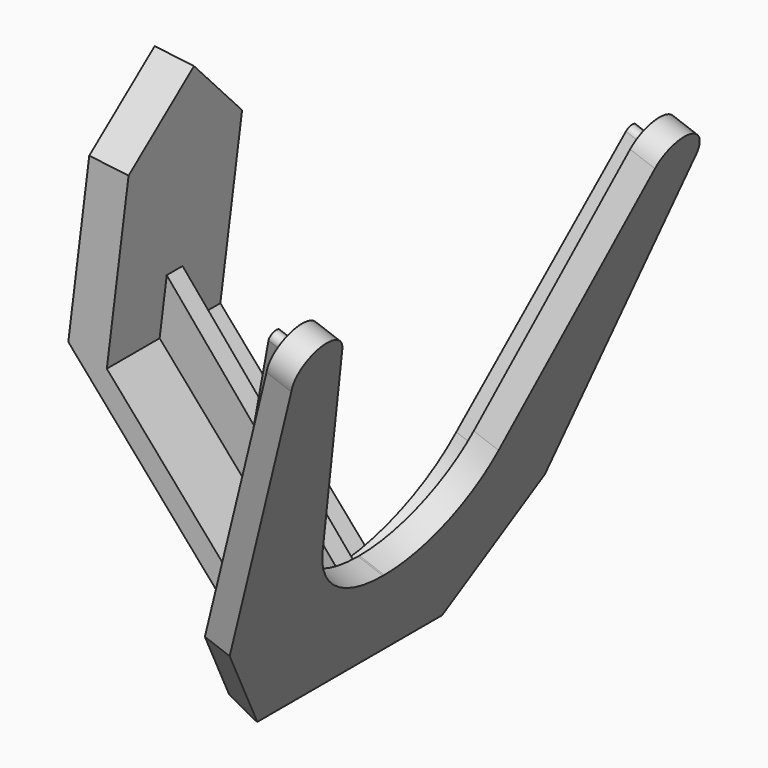
from build123d import *

# Parameters (mm, degrees)
BOX033_W               = 5
BOX033_H               = 49
BOX033_DEPTH           = 74
BOX033_PITCH_ANGLE     = 29
PAD001_DEPTH           = 4
PAD_DEPTH              = 4
EXTRUDE044_DEPTH       = 6
EXTRUDE044_PITCH_ANGLE = -13
BOX032_W               = 47
BOX032_H               = 35
BOX032_DEPTH           = 12
BOX021_W               = 10
BOX021_H               = 3
BOX021_DEPTH           = 49
BOX021_PLACEMENT_ANGLE = 30
BOX020_W               = 5
BOX020_H               = 21.5
BOX020_DEPTH           = 52
BOX020_PITCH_ANGLE     = 29
CUT035_PLACEMENT_ANGLE = 70


with BuildPart() as obj1:
    # Box033 → Box033 (new body)
    with BuildSketch(Plane.XY):
        with Locations((2.5, 24.5)):
            Rectangle(BOX033_W, BOX033_H)
    extrude(amount=BOX033_DEPTH)


with BuildPart() as obj1_1:
    # Box033 pitch: moved
    add(obj1.part.rotate(Axis((0, 0, 0), (0, 1, 0)), BOX033_PITCH_ANGLE))


with BuildPart() as obj1_2:
    # Box033 placement: moved
    add(obj1_1.part.moved(Location((-34, -29, 0))))


with BuildPart() as pad001:
    # Sketch021 → Pad001 (new body)
    with BuildSketch(Plane.XY.offset(3)):
        with BuildLine():
            Line((-23.358564, -3.63874), (-23.358564, 3.63874))
            ThreePointArc((-6.004676, 24.074331), (-18.054345, 16.720651), (-23.358564, 3.63874))
            Line((-6.004676, 24.074331), (36.3059, 34.679668))
            ThreePointArc((36.87983, 32.765973), (37.506884, 33.996941), (36.3059, 34.679668))
            Line((36.87983, 32.765973), (-4.412486, 18.291349))
            ThreePointArc((-4.412486, 18.291349), (-14.077658, 11.396909), (-17.779108, 0.116478))
            Line((-17.779108, 0.116478), (-17.779108, -0.174905))
            ThreePointArc((-17.779108, -0.174905), (-14.075788, -11.431815), (-4.412486, -18.291349))
            Line((-4.412486, -18.291349), (36.879838, -32.765976))
            ThreePointArc((36.3059, -34.679668), (37.506883, -33.996945), (36.879838, -32.765976))
            Line((36.3059, -34.679668), (-6.004676, -24.074331))
            ThreePointArc((-23.358564, -3.63874), (-18.054345, -16.720651), (-6.004676, -24.074331))
        make_face()
    extrude(amount=PAD001_DEPTH)


with BuildPart() as pad:
    # Sketch020 → Pad (new body)
    with BuildSketch(Plane.XY):
        with BuildLine():
            Line((-28.053126, -17.5), (-28.053126, 17.5))
            Line((-28.053126, 17.5), (-11.404976, 29.852464))
            Line((-11.404976, 29.852464), (35.190344, 38.097016))
            ThreePointArc((37.911252, 29.600454), (40.755985, 35.195389), (35.190344, 38.097016))
            Line((37.911252, 29.600454), (-1.109137, 16.664622))
            ThreePointArc((-1.109137, 16.664622), (-9.755072, 10.323805), (-13.053126, 0.121796))
            Line((-13.053126, 0.121796), (-13.053126, -0.121796))
            ThreePointArc((-13.053126, -0.121796), (-9.755072, -10.323805), (-1.109137, -16.664622))
            Line((-1.109137, -16.664622), (37.911252, -29.600454))
            ThreePointArc((35.190344, -38.097016), (40.755985, -35.195389), (37.911252, -29.600454))
            Line((35.190344, -38.097016), (-11.404976, -29.852464))
            Line((-28.053126, -17.5), (-11.404976, -29.852464))
        make_face()
    extrude(amount=PAD_DEPTH)


with BuildPart() as extrude044:
    # Sketch016 → Extrude044 (new body)
    with BuildSketch(Plane.XY):
        Polygon((23.917763, 0), (13.167763, 10.75), (-16.832237, 10.75), (-16.832237, -10.75), (13.167763, -10.75), align=None)
    extrude(amount=EXTRUDE044_DEPTH)


with BuildPart() as extrude044_1:
    # Extrude044 pitch: moved
    add(extrude044.part.rotate(Axis((0, 0, 0), (0, 1, 0)), EXTRUDE044_PITCH_ANGLE))


with BuildPart() as extrude044_2:
    # Extrude044 placement: moved
    add(extrude044_1.part.moved(Location((10, -1.25, 41))))


with BuildPart() as obj2:
    # Box032 → Box032 (new body)
    with BuildSketch(Plane(origin=(-20, -15, 43), x_dir=(1, 0, 0), z_dir=(0, 0, 1))):
        with Locations((23.5, 17.5)):
            Rectangle(BOX032_W, BOX032_H)
    extrude(amount=BOX032_DEPTH)


with BuildPart() as obj3:
    # Box021 → Box021 (new body)
    with BuildSketch(Plane.XY):
        with Locations((5, 1.5)):
            Rectangle(BOX021_W, BOX021_H)
    extrude(amount=BOX021_DEPTH)


with BuildPart() as obj3_1:
    # Box021 placement: moved
    add(obj3.part.moved(Location((-26, -1, 6))).rotate(Axis((-26, -1, 6), (0, 1, 0)), BOX021_PLACEMENT_ANGLE))


with BuildPart() as stand:
    # Box020 → Box020 (new body)
    with BuildSketch(Plane.XY):
        with Locations((2.5, 10.75)):
            Rectangle(BOX020_W, BOX020_H)
    extrude(amount=BOX020_DEPTH)


with BuildPart() as stand_1:
    # Box020 pitch: moved
    add(stand.part.rotate(Axis((0, 0, 0), (0, 1, 0)), BOX020_PITCH_ANGLE))


with BuildPart() as stand_2:
    # Box020 placement: moved
    add(stand_1.part.moved(Location((-28, -11, 4))))

    # Fusion021: union obj3
    add(obj3_1.part)

    # Cut029: cut obj2
    add(obj2.part, mode=Mode.SUBTRACT)


with BuildPart() as stand_3:
    # Cut029 placement: moved
    add(stand_2.part.moved(Location((0, -1, 0))))

    # Fusion032: union Pad001, Pad, Extrude044
    add(pad001.part)
    add(pad.part)
    add(extrude044_2.part)

    # Cut035: cut obj1
    add(obj1_2.part, mode=Mode.SUBTRACT)


with BuildPart() as stand_4:
    # Cut035 placement: moved
    add(stand_3.part.moved(Location((86, 0, 16))).rotate(Axis((86, 0, 16), (0, -1, 0)), CUT035_PLACEMENT_ANGLE))


solid = stand_4.part
